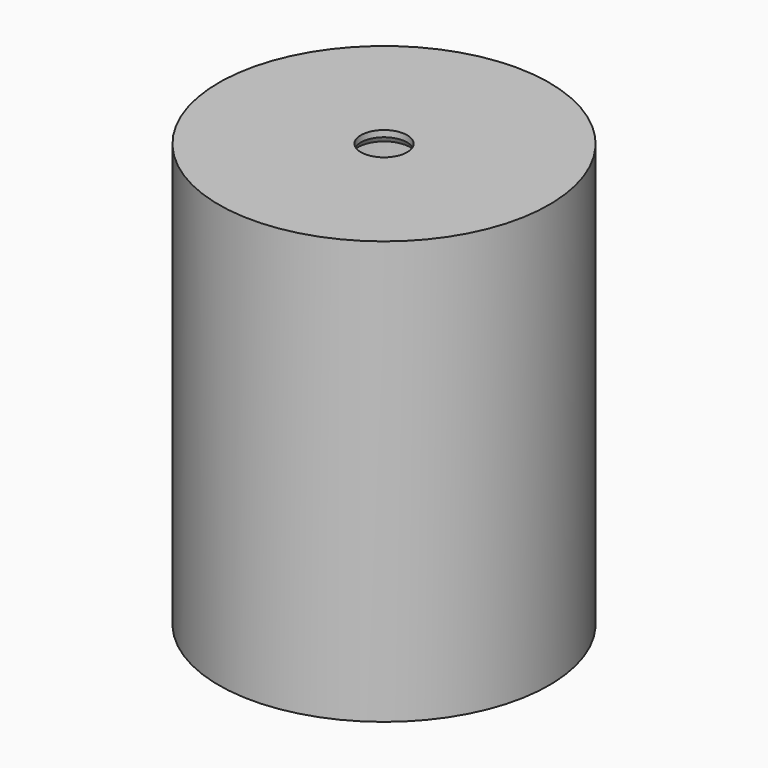
from build123d import *

# Parameters (mm, degrees)
F2_SIZE2 = 0.293294
F2_SIZE  = 0.508
F3_SIZE  = 0.762


with BuildPart() as f1:
    # F0 (on Right) → F1 (revolve)
    with BuildSketch(Plane.YZ):
        Polygon((15.875, 40.64), (2.2225, 40.64), (2.2225, 39.5224), (6.35, 39.5224), (6.35, 8.0264), (9.525, 8.0264), (9.525, 0), (15.875, 0), align=None)
    revolve(axis=Axis((0, 0, 20.32), (0, 0, 1)))

    # F2
    f2_edges = [f1.edges().sort_by_distance(p)[0] for p in [
        (0, -2.2225, 39.5224),
    ]]
    chamfer(f2_edges, length=F2_SIZE, length2=F2_SIZE2)

    # F3
    f3_edges = [f1.edges().sort_by_distance(p)[0] for p in [
        (0, -6.35, 8.0264),
        (0, -9.525, 0),
    ]]
    chamfer(f3_edges, length=F3_SIZE)


solid = f1.part
